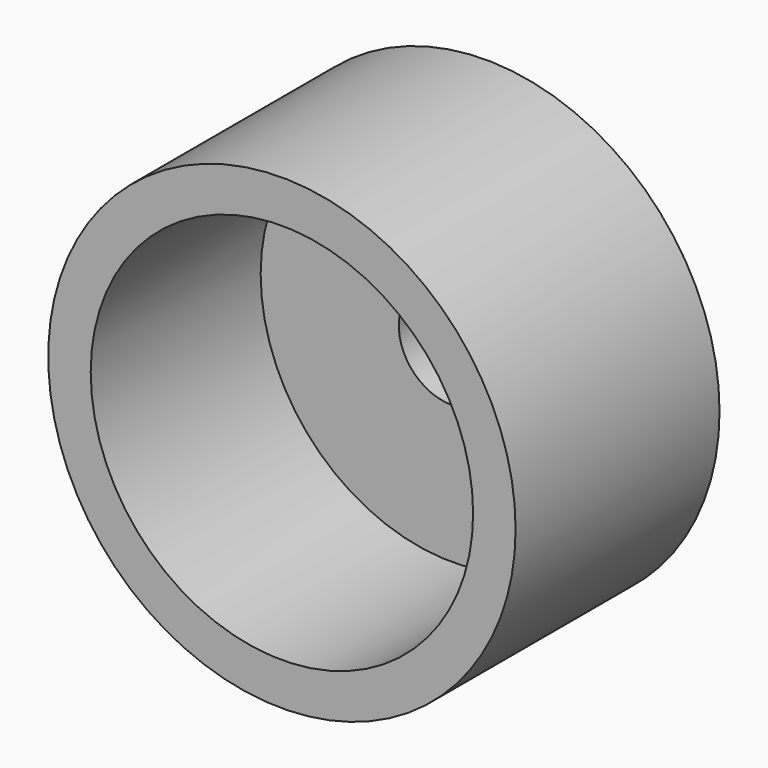
from build123d import *

# Parameters (mm, degrees)
F0_R     = 11
F1_DEPTH = 2
F2_R     = 2.5
F3_DEPTH = 25
F4_R     = 11
F4_R_2   = 9
F5_DEPTH = 10


with BuildPart() as f1:
    # F0 (on Front) → F1 (new body)
    with BuildSketch(Plane.XZ):
        Circle(F0_R)
    extrude(amount=F1_DEPTH)

    # F2 (on face) → F3 (cut)
    with BuildSketch(Plane.XZ.offset(2)):
        Circle(F2_R)
    extrude(amount=-F3_DEPTH, mode=Mode.SUBTRACT)

    # F4 (on face) → F5 (join)
    with BuildSketch(Plane.XZ.offset(2)):
        Circle(F4_R)
        Circle(F4_R_2, mode=Mode.SUBTRACT)
    extrude(amount=F5_DEPTH)


solid = f1.part
